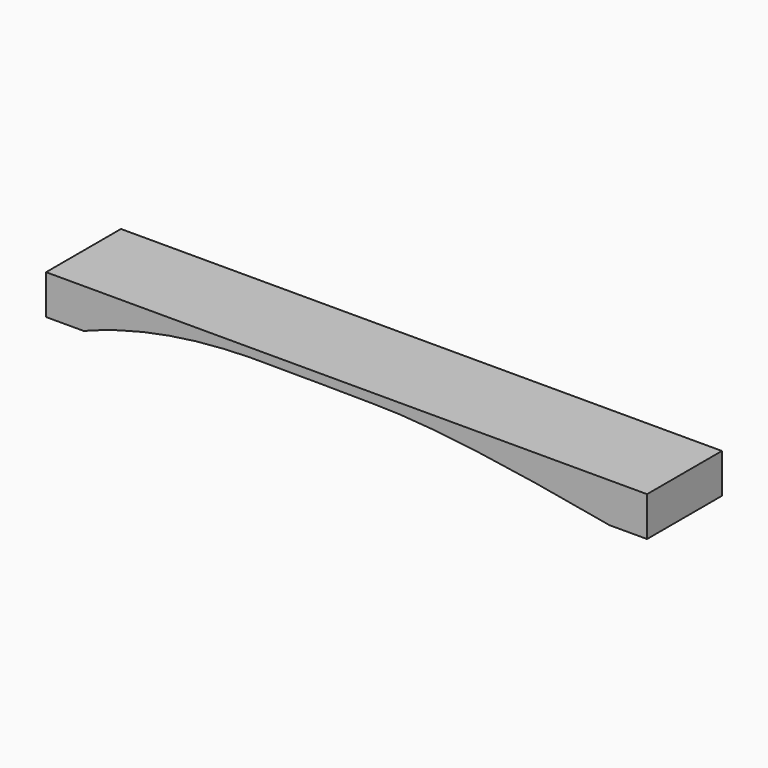
from build123d import *

# Parameters (mm, degrees)
BAR_DEPTH = 68.58


with BuildPart() as part:
    # Sketch → Bar (new body)
    with BuildSketch(Plane.XZ):
        with BuildLine():
            Line((27.53, 0), (0, 0))
            Line((0, 0), (0, 28.96))
            Line((0, 28.96), (440.4, 28.96))
            Line((440.4, 28.96), (440.4, 0))
            Line((440.4, 0), (412.87, 0))
            add(Edge.make_bspline(
                [(412.87, 0), (296.2, 21.75), (221.63, 21.99), (190.19, 22.68), (86.07, 22.89), (27.53, 0)],
                knots=[0, 0, 0, 0, 0.333333, 0.666667, 1, 1, 1, 1], degree=3))
        make_face()
    extrude(amount=BAR_DEPTH)


solid = part.part
